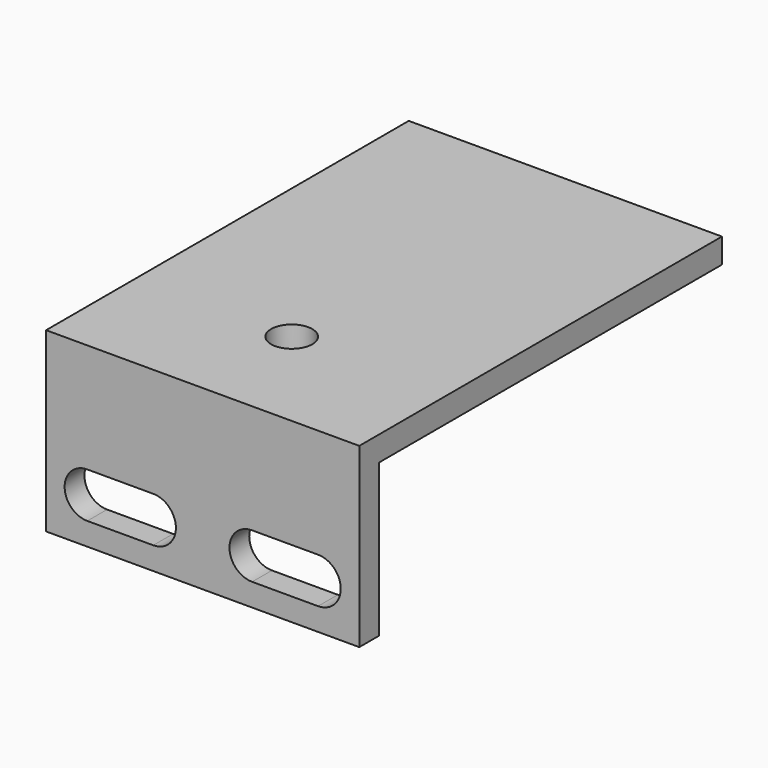
from build123d import *

# Parameters (mm, degrees)
F0_W     = 38
F0_H     = 21.5
F1_DEPTH = 3
F2_W     = 38
F2_H     = 3
F3_DEPTH = 55
F4_R     = 2.5
F5_DEPTH = 21.501


with BuildPart() as f1:
    # F0 (on Front) → F1 (new body)
    with BuildSketch(Plane.XZ):
        Rectangle(F0_W, F0_H)
        with BuildLine():
            ThreePointArc((-14, -8), (-16.75, -5.25), (-14, -2.5))
            Line((-14, -2.5), (-6, -2.5))
            ThreePointArc((-6, -2.5), (-3.25, -5.25), (-6, -8))
            Line((-6, -8), (-14, -8))
        make_face(mode=Mode.SUBTRACT)
        with BuildLine():
            Line((14, -8), (6, -8))
            ThreePointArc((6, -8), (3.25, -5.25), (6, -2.5))
            Line((6, -2.5), (14, -2.5))
            ThreePointArc((14, -2.5), (16.75, -5.25), (14, -8))
        make_face(mode=Mode.SUBTRACT)
    extrude(amount=F1_DEPTH)

    # F2 (on face) → F3 (join)
    with BuildSketch(Plane.XZ.offset(3)):
        with Locations((0, 9.25)):
            Rectangle(F2_W, F2_H)
    extrude(amount=-F3_DEPTH)

    # F4 (on face) → F5 (cut, through all)
    with BuildSketch(Plane.XY.offset(10.75)):
        with Locations((0, 10.5)):
            Circle(F4_R)
    extrude(amount=-F5_DEPTH, mode=Mode.SUBTRACT)


solid = f1.part
